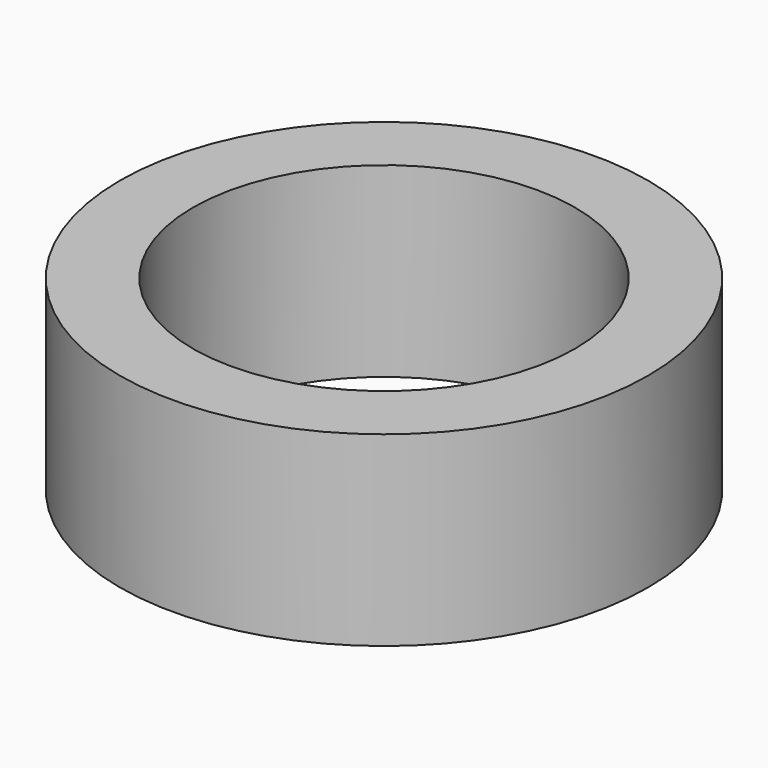
from build123d import *

# Parameters (mm, degrees)
SKETCH_R      = 8.5
SKETCH_R_2    = 6.15
EXTRUDE_DEPTH = 6


with BuildPart() as part:
    # Sketch → Extrude (new body)
    with BuildSketch(Plane.XY):
        Circle(SKETCH_R)
        Circle(SKETCH_R_2, mode=Mode.SUBTRACT)
    extrude(amount=EXTRUDE_DEPTH)


solid = part.part
